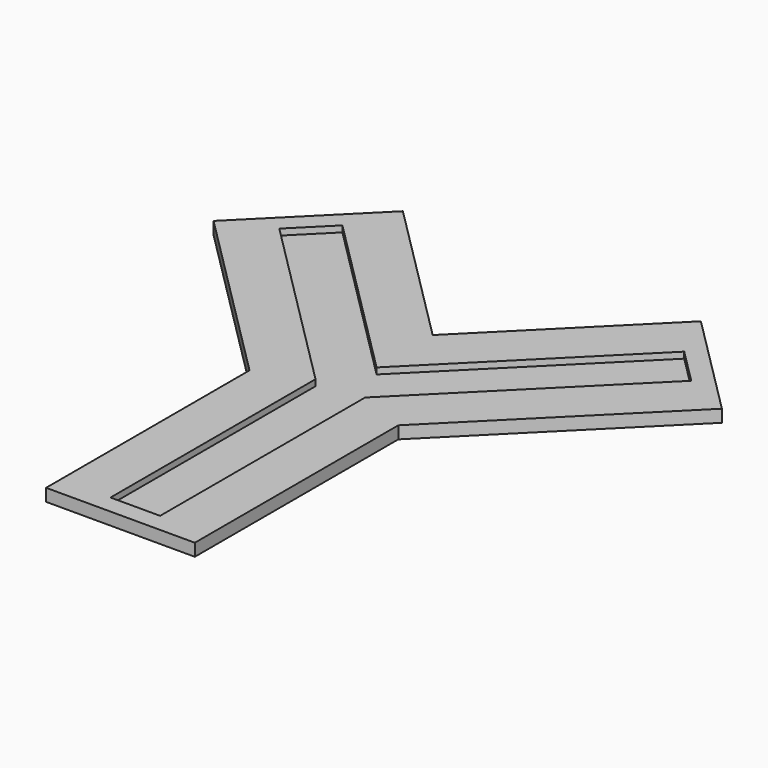
from build123d import *

# Parameters (mm, degrees)
F1_DEPTH  = 43
F6_DEPTH  = 43
F8_DEPTH  = 43
F10_DEPTH = 43
F12_DEPTH = 43
F14_DEPTH = 43
F15_W     = 24
F15_H     = 2
F16_DEPTH = 3
F17_W     = 24
F17_H     = 2
F18_DEPTH = 3
F19_W     = 24
F19_H     = 2
F20_DEPTH = 3


with BuildPart() as f1:
    # F0 (on Front) → F1 (new body)
    with BuildSketch(Plane.XZ):
        Polygon((4, 0), (0, 0), (-4, 0), (-4, 1), (-12, 1), (-12, -1), (12, -1), (12, 1), (4, 1), align=None)
    extrude(amount=F1_DEPTH)

    # F5 (on face) → F6 (join)
    with BuildSketch(Plane(origin=(0, 0, 0), x_dir=(-0.7071067812, -0.7071067812, 0), z_dir=(-0.7071067812, 0.7071067812, 0))):
        Polygon((4, 0), (0, 0), (-4, 0), (-4, 1), (-12, 1), (-12, -1), (12, -1), (12, 1), (4, 1), align=None)
    extrude(amount=F6_DEPTH)

    # F7 (on face) → F8 (join)
    with BuildSketch(Plane(origin=(0, 0, 0), x_dir=(-0.7071067812, 0.7071067812, 0), z_dir=(0.7071067812, 0.7071067812, 0))):
        Polygon((4, 0), (0, 0), (-4, 0), (-4, 1), (-12, 1), (-12, -1), (12, -1), (12, 1), (4, 1), align=None)
    extrude(amount=F8_DEPTH)

    # F9 (on face) → F10 (cut)
    with BuildSketch(Plane.XZ.offset(43)):
        Polygon((-4, 0), (0, 0), (4, 0), (4, 1), (-4, 1), align=None)
    extrude(amount=-F10_DEPTH, mode=Mode.SUBTRACT)

    # F11 (on face) → F12 (cut)
    with BuildSketch(Plane(origin=(-30.405591591, 30.405591591, 0), x_dir=(-0.7071067812, -0.7071067812, 0), z_dir=(-0.7071067812, 0.7071067812, 0))):
        Polygon((-4, 0), (0, 0), (4, 0), (4, 1), (-4, 1), align=None)
    extrude(amount=-F12_DEPTH, mode=Mode.SUBTRACT)

    # F13 (on face) → F14 (cut)
    with BuildSketch(Plane(origin=(30.405591591, 30.405591591, 0), x_dir=(-0.7071067812, 0.7071067812, 0), z_dir=(0.7071067812, 0.7071067812, 0))):
        Polygon((-4, 0), (0, 0), (4, 0), (4, 1), (-4, 1), align=None)
    extrude(amount=-F14_DEPTH, mode=Mode.SUBTRACT)

    # F15 (on face) → F16 (join)
    with BuildSketch(Plane.XZ.offset(43)):
        Rectangle(F15_W, F15_H)
    extrude(amount=F16_DEPTH)

    # F17 (on face) → F18 (join)
    with BuildSketch(Plane(origin=(-30.405591591, 30.405591591, 0), x_dir=(-0.7071067812, -0.7071067812, 0), z_dir=(-0.7071067812, 0.7071067812, 0))):
        Rectangle(F17_W, F17_H)
    extrude(amount=F18_DEPTH)

    # F19 (on face) → F20 (join)
    with BuildSketch(Plane(origin=(30.405591591, 30.405591591, 0), x_dir=(-0.7071067812, 0.7071067812, 0), z_dir=(0.7071067812, 0.7071067812, 0))):
        Rectangle(F19_W, F19_H)
    extrude(amount=F20_DEPTH)


solid = f1.part
